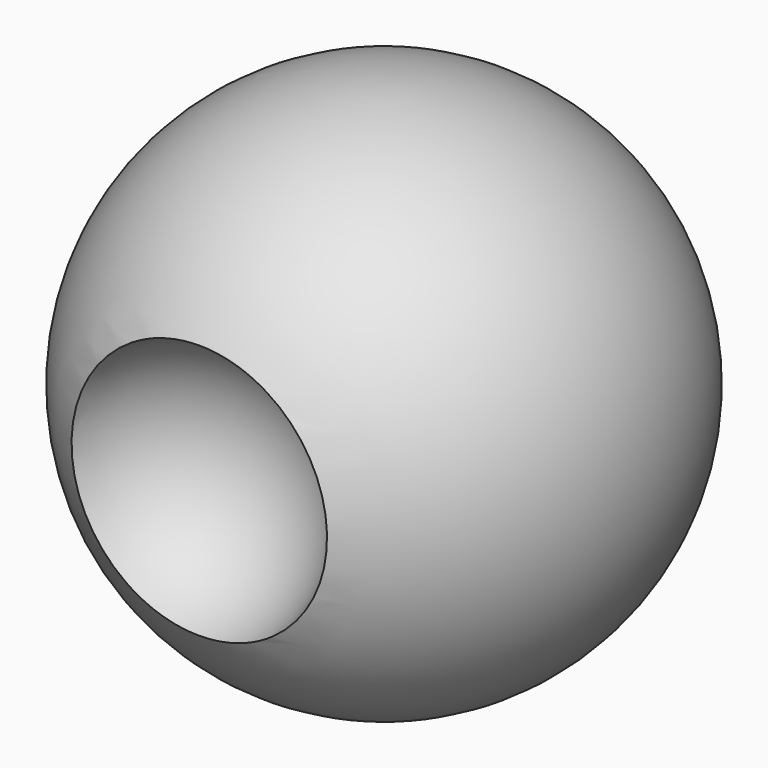
from build123d import *


with BuildPart() as f1:
    # F0 (on Front) → F1 (revolve)
    with BuildSketch(Plane.XZ):
        with BuildLine():
            Line((0, -40), (0, 40))
            ThreePointArc((0, 40), (-40, 0), (0, -40))
        make_face()
    revolve(axis=Axis((0, 0, 0), (0, 0, -1)))

    # F3 (on offset) → F4 (revolve, cut)
    with BuildSketch(Plane.XZ.offset(40)):
        with BuildLine():
            Line((0, -20), (0, 20))
            ThreePointArc((0, 20), (-20, 0), (0, -20))
        make_face()
    revolve(axis=Axis((0, -40, 0), (0, 0, -1)), mode=Mode.SUBTRACT)


solid = f1.part
